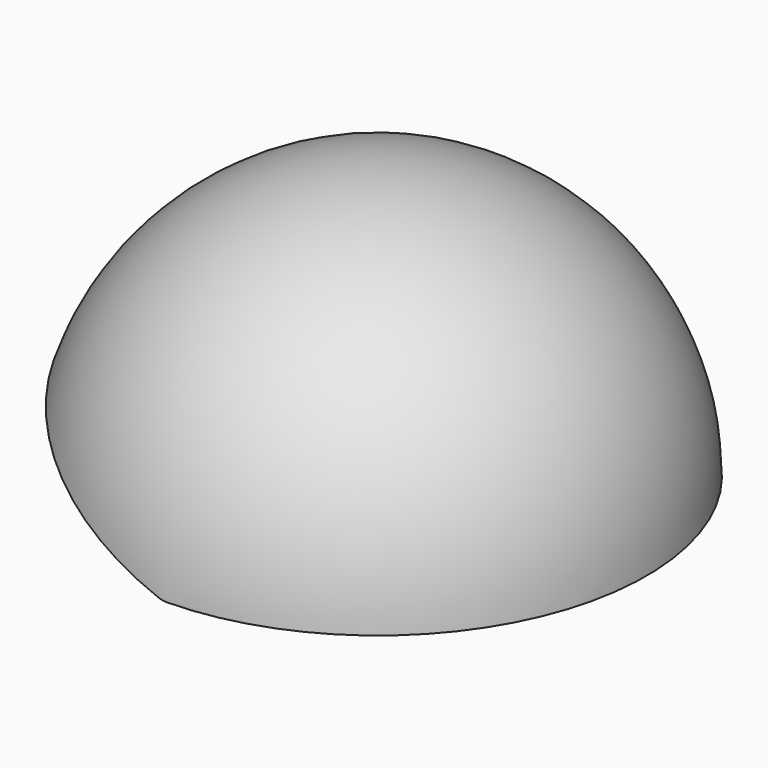
from build123d import *

# Parameters (mm, degrees)
REVOLUTION_ANGLE = -160
FILLET_R         = 10


with BuildPart() as part:
    # Sketch → Revolution (revolve)
    with BuildSketch(Plane.XY):
        with BuildLine():
            ThreePointArc((0, -95), (95, 0), (0, 95))
            Line((0, 95), (0, 99))
            ThreePointArc((0, -99), (99, 0), (0, 99))
            Line((0, -95), (0, -99))
        make_face()
    revolve(axis=Axis((0, 0, 0), (0, 1, 0)), revolution_arc=REVOLUTION_ANGLE)

    # Fillet
    fillet_edges = [part.edges().sort_by_distance(p)[0] for p in [
        (0, 97, 0),
        (0, -97, 0),
    ]]
    fillet(fillet_edges, radius=FILLET_R)


solid = part.part
